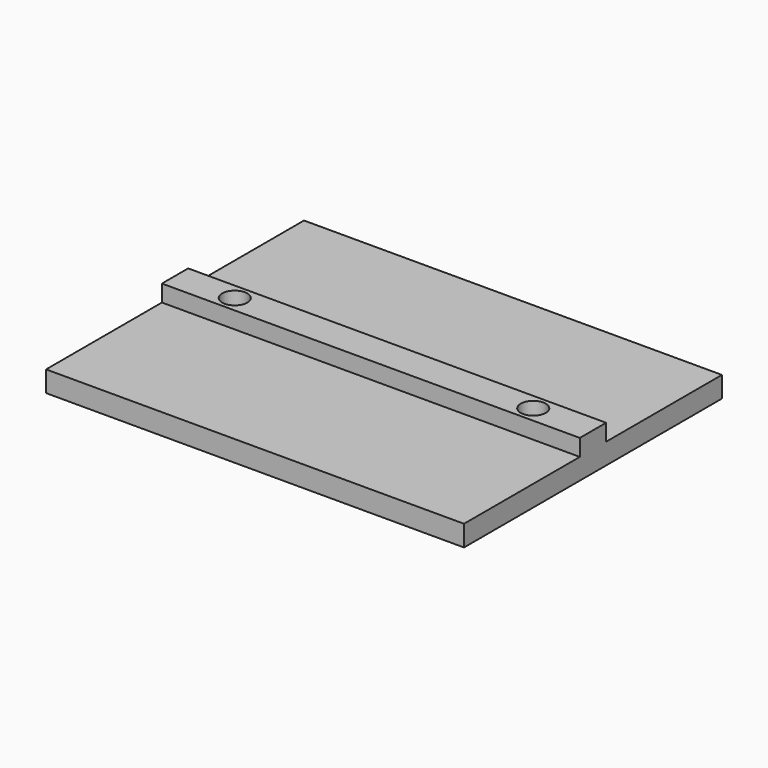
from build123d import *

# Parameters (mm, degrees)
F0_W     = 5.5
F0_H     = 2.8
F1_DEPTH = 70
F3_D     = 4.2


with BuildPart() as f1:
    # F0 (on Right) → F1 (new body)
    with BuildSketch(Plane.YZ):
        Polygon((27, -1.75), (27, 1.75), (2.75, 1.75), (-2.75, 1.75), (-27, 1.75), (-27, -1.75), align=None)
        with Locations((0, 3.15)):
            Rectangle(F0_W, F0_H)
    extrude(amount=F1_DEPTH)

    # F3 (through all)
    with Locations(Plane.XY.offset(4.55)):
        with Locations((10, 0), (60, 0)):
            Hole(F3_D / 2)


solid = f1.part
